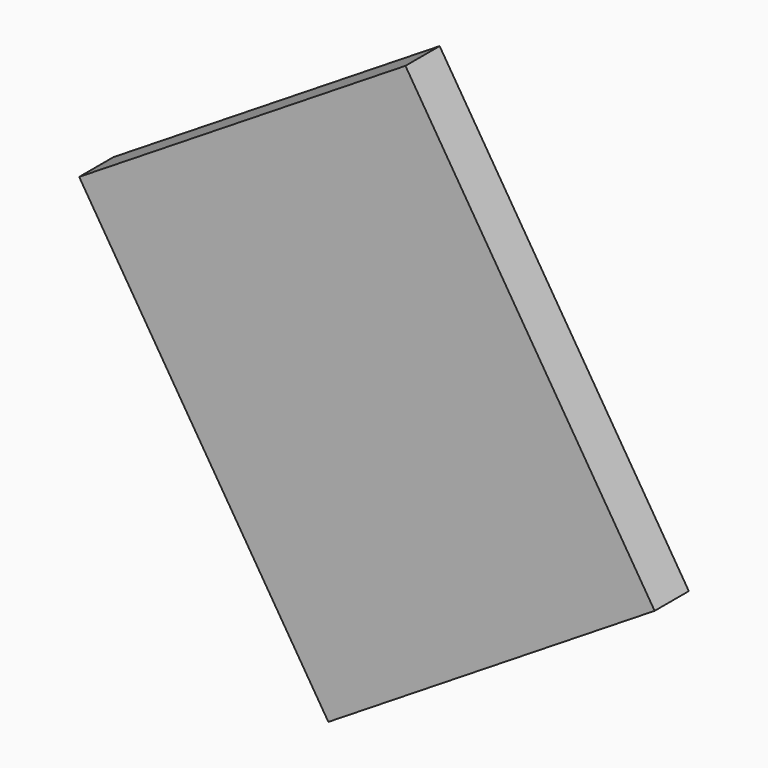
from build123d import *

# Parameters (mm, degrees)
CYLINDER063_R      = 0.5
CYLINDER063_DEPTH  = 0.01
BOX142_W           = 4.5
BOX142_H           = 5.5
BOX142_DEPTH       = 0.5
CUT064_ROLL_ANGLE  = -90
CUT064_PITCH_ANGLE = -32


with BuildPart() as cylinder063:
    # Cylinder063 → Cylinder063 (new body)
    with BuildSketch(Plane(origin=(1, 4.5, 0.49), x_dir=(1, 0, 0), z_dir=(0, 0, 1))):
        Circle(CYLINDER063_R)
    extrude(amount=CYLINDER063_DEPTH)


with BuildPart() as obj1:
    # Box142 → Box142 (new body)
    with BuildSketch(Plane.XY):
        with Locations((2.25, 2.75)):
            Rectangle(BOX142_W, BOX142_H)
    extrude(amount=BOX142_DEPTH)

    # Cut064: cut Cylinder063
    add(cylinder063.part, mode=Mode.SUBTRACT)


with BuildPart() as obj1_1:
    # Cut064 roll: moved
    add(obj1.part.rotate(Axis((0, 0, 0), (1, 0, 0)), CUT064_ROLL_ANGLE))


with BuildPart() as obj1_2:
    # Cut064 pitch: moved
    add(obj1_1.part.rotate(Axis((0, 0, 0), (0, 1, 0)), CUT064_PITCH_ANGLE))


with BuildPart() as obj1_3:
    # Cut064 placement: moved
    add(obj1_2.part.moved(Location((-9.429562, 2.79, 54.797147))))


solid = obj1_3.part
